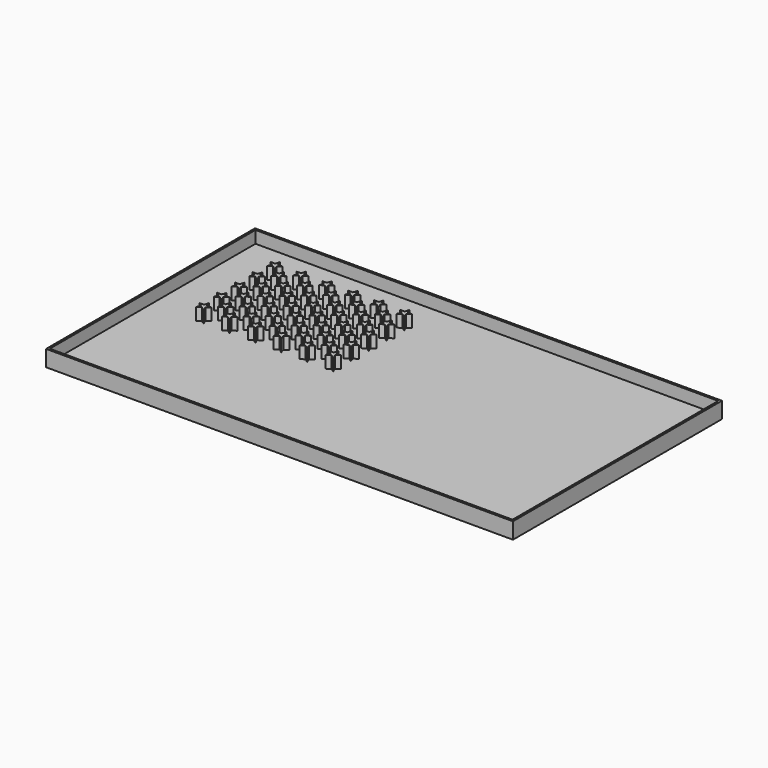
from build123d import *

# Parameters (mm, degrees)
F1_DEPTH = 2
F2_W     = 57.658
F2_H     = 32.258
F2_W_2   = 57.15
F2_H_2   = 31.75
F3_DEPTH = 2
F4_W     = 57.15
F4_H     = 31.75
F5_DEPTH = 0.5


with BuildPart() as f1:
    # F0 (on Top) → F1 (new body)
    with BuildSketch(Plane.XY):
        Polygon((-22.353018, 11.57172), (-22.5298, 12.1158), (-22.706582, 11.57172), (-23.278662, 11.57172), (-22.81584, 11.23546), (-22.992622, 10.69138), (-22.5298, 11.02764), (-22.066978, 10.69138), (-22.24376, 11.23546), (-21.780938, 11.57172), align=None)
        Polygon((-22.353018, 8.82852), (-22.5298, 9.3726), (-22.706582, 8.82852), (-23.278662, 8.82852), (-22.81584, 8.49226), (-22.992622, 7.94818), (-22.5298, 8.28444), (-22.066978, 7.94818), (-22.24376, 8.49226), (-21.780938, 8.82852), align=None)
        Polygon((-20.752247, 10.200905), (-20.9296, 10.74674), (-21.106953, 10.200905), (-21.680878, 10.200905), (-21.216563, 9.86356), (-21.393915, 9.317725), (-20.9296, 9.65507), (-20.465285, 9.317725), (-20.642637, 9.86356), (-20.178322, 10.200905), align=None)
        Polygon((-19.152618, 11.57172), (-19.3294, 12.1158), (-19.506182, 11.57172), (-20.078262, 11.57172), (-19.61544, 11.23546), (-19.792222, 10.69138), (-19.3294, 11.02764), (-18.866578, 10.69138), (-19.04336, 11.23546), (-18.580538, 11.57172), align=None)
        Polygon((-15.952218, 11.57172), (-16.129, 12.1158), (-16.305782, 11.57172), (-16.877862, 11.57172), (-16.41504, 11.23546), (-16.591822, 10.69138), (-16.129, 11.02764), (-15.666178, 10.69138), (-15.84296, 11.23546), (-15.380138, 11.57172), align=None)
        Polygon((-22.353018, 6.08532), (-22.5298, 6.6294), (-22.706582, 6.08532), (-23.278662, 6.08532), (-22.81584, 5.74906), (-22.992622, 5.20498), (-22.5298, 5.54124), (-22.066978, 5.20498), (-22.24376, 5.74906), (-21.780938, 6.08532), align=None)
        Polygon((-20.752247, 7.457705), (-20.9296, 8.00354), (-21.106953, 7.457705), (-21.680878, 7.457705), (-21.216563, 7.12036), (-21.393915, 6.574525), (-20.9296, 6.91187), (-20.465285, 6.574525), (-20.642637, 7.12036), (-20.178322, 7.457705), align=None)
        Polygon((-19.152618, 8.82852), (-19.3294, 9.3726), (-19.506182, 8.82852), (-20.078262, 8.82852), (-19.61544, 8.49226), (-19.792222, 7.94818), (-19.3294, 8.28444), (-18.866578, 7.94818), (-19.04336, 8.49226), (-18.580538, 8.82852), align=None)
        Polygon((-17.551847, 10.200905), (-17.7292, 10.74674), (-17.906553, 10.200905), (-18.480478, 10.200905), (-18.016163, 9.86356), (-18.193515, 9.317725), (-17.7292, 9.65507), (-17.264885, 9.317725), (-17.442237, 9.86356), (-16.977922, 10.200905), align=None)
        Polygon((-12.751818, 11.57172), (-12.9286, 12.1158), (-13.105382, 11.57172), (-13.677462, 11.57172), (-13.21464, 11.23546), (-13.391422, 10.69138), (-12.9286, 11.02764), (-12.465778, 10.69138), (-12.64256, 11.23546), (-12.179738, 11.57172), align=None)
        Polygon((-14.351447, 10.200905), (-14.5288, 10.74674), (-14.706153, 10.200905), (-15.280078, 10.200905), (-14.815763, 9.86356), (-14.993115, 9.317725), (-14.5288, 9.65507), (-14.064485, 9.317725), (-14.241837, 9.86356), (-13.777522, 10.200905), align=None)
        Polygon((-15.952218, 8.82852), (-16.129, 9.3726), (-16.305782, 8.82852), (-16.877862, 8.82852), (-16.41504, 8.49226), (-16.591822, 7.94818), (-16.129, 8.28444), (-15.666178, 7.94818), (-15.84296, 8.49226), (-15.380138, 8.82852), align=None)
        Polygon((-17.551847, 7.457705), (-17.7292, 8.00354), (-17.906553, 7.457705), (-18.480478, 7.457705), (-18.016163, 7.12036), (-18.193515, 6.574525), (-17.7292, 6.91187), (-17.264885, 6.574525), (-17.442237, 7.12036), (-16.977922, 7.457705), align=None)
        Polygon((-19.152618, 6.08532), (-19.3294, 6.6294), (-19.506182, 6.08532), (-20.078262, 6.08532), (-19.61544, 5.74906), (-19.792222, 5.20498), (-19.3294, 5.54124), (-18.866578, 5.20498), (-19.04336, 5.74906), (-18.580538, 6.08532), align=None)
        Polygon((-20.752247, 4.714505), (-20.9296, 5.26034), (-21.106953, 4.714505), (-21.680878, 4.714505), (-21.216563, 4.37716), (-21.393915, 3.831325), (-20.9296, 4.16867), (-20.465285, 3.831325), (-20.642637, 4.37716), (-20.178322, 4.714505), align=None)
        Polygon((-22.353018, 3.34212), (-22.5298, 3.8862), (-22.706582, 3.34212), (-23.278662, 3.34212), (-22.81584, 3.00586), (-22.992622, 2.46178), (-22.5298, 2.79804), (-22.066978, 2.46178), (-22.24376, 3.00586), (-21.780938, 3.34212), align=None)
        Polygon((-22.353018, 0.59892), (-22.5298, 1.143), (-22.706582, 0.59892), (-23.278662, 0.59892), (-22.81584, 0.26266), (-22.992622, -0.28142), (-22.5298, 0.05484), (-22.066978, -0.28142), (-22.24376, 0.26266), (-21.780938, 0.59892), align=None)
        Polygon((-20.752247, 1.971305), (-20.9296, 2.51714), (-21.106953, 1.971305), (-21.680878, 1.971305), (-21.216563, 1.63396), (-21.393915, 1.088125), (-20.9296, 1.42547), (-20.465285, 1.088125), (-20.642637, 1.63396), (-20.178322, 1.971305), align=None)
        Polygon((-19.152618, 3.34212), (-19.3294, 3.8862), (-19.506182, 3.34212), (-20.078262, 3.34212), (-19.61544, 3.00586), (-19.792222, 2.46178), (-19.3294, 2.79804), (-18.866578, 2.46178), (-19.04336, 3.00586), (-18.580538, 3.34212), align=None)
        Polygon((-17.551847, 4.714505), (-17.7292, 5.26034), (-17.906553, 4.714505), (-18.480478, 4.714505), (-18.016163, 4.37716), (-18.193515, 3.831325), (-17.7292, 4.16867), (-17.264885, 3.831325), (-17.442237, 4.37716), (-16.977922, 4.714505), align=None)
        Polygon((-15.952218, 6.08532), (-16.129, 6.6294), (-16.305782, 6.08532), (-16.877862, 6.08532), (-16.41504, 5.74906), (-16.591822, 5.20498), (-16.129, 5.54124), (-15.666178, 5.20498), (-15.84296, 5.74906), (-15.380138, 6.08532), align=None)
        Polygon((-14.351447, 7.457705), (-14.5288, 8.00354), (-14.706153, 7.457705), (-15.280078, 7.457705), (-14.815763, 7.12036), (-14.993115, 6.574525), (-14.5288, 6.91187), (-14.064485, 6.574525), (-14.241837, 7.12036), (-13.777522, 7.457705), align=None)
        Polygon((-12.751818, 8.82852), (-12.9286, 9.3726), (-13.105382, 8.82852), (-13.677462, 8.82852), (-13.21464, 8.49226), (-13.391422, 7.94818), (-12.9286, 8.28444), (-12.465778, 7.94818), (-12.64256, 8.49226), (-12.179738, 8.82852), align=None)
        Polygon((-11.151047, 10.200905), (-11.3284, 10.74674), (-11.505753, 10.200905), (-12.079678, 10.200905), (-11.615363, 9.86356), (-11.792715, 9.317725), (-11.3284, 9.65507), (-10.864085, 9.317725), (-11.041437, 9.86356), (-10.577122, 10.200905), align=None)
        Polygon((-9.551418, 11.57172), (-9.7282, 12.1158), (-9.904982, 11.57172), (-10.477062, 11.57172), (-10.01424, 11.23546), (-10.191022, 10.69138), (-9.7282, 11.02764), (-9.265378, 10.69138), (-9.44216, 11.23546), (-8.979338, 11.57172), align=None)
        Polygon((-6.351018, 11.57172), (-6.5278, 12.1158), (-6.704582, 11.57172), (-7.276662, 11.57172), (-6.81384, 11.23546), (-6.990622, 10.69138), (-6.5278, 11.02764), (-6.064978, 10.69138), (-6.24176, 11.23546), (-5.778938, 11.57172), align=None)
        Polygon((-7.950647, 10.200905), (-8.128, 10.74674), (-8.305353, 10.200905), (-8.879278, 10.200905), (-8.414963, 9.86356), (-8.592315, 9.317725), (-8.128, 9.65507), (-7.663685, 9.317725), (-7.841037, 9.86356), (-7.376722, 10.200905), align=None)
        Polygon((-9.551418, 8.82852), (-9.7282, 9.3726), (-9.904982, 8.82852), (-10.477062, 8.82852), (-10.01424, 8.49226), (-10.191022, 7.94818), (-9.7282, 8.28444), (-9.265378, 7.94818), (-9.44216, 8.49226), (-8.979338, 8.82852), align=None)
        Polygon((-11.151047, 7.457705), (-11.3284, 8.00354), (-11.505753, 7.457705), (-12.079678, 7.457705), (-11.615363, 7.12036), (-11.792715, 6.574525), (-11.3284, 6.91187), (-10.864085, 6.574525), (-11.041437, 7.12036), (-10.577122, 7.457705), align=None)
        Polygon((-12.751818, 6.08532), (-12.9286, 6.6294), (-13.105382, 6.08532), (-13.677462, 6.08532), (-13.21464, 5.74906), (-13.391422, 5.20498), (-12.9286, 5.54124), (-12.465778, 5.20498), (-12.64256, 5.74906), (-12.179738, 6.08532), align=None)
        Polygon((-14.351447, 4.714505), (-14.5288, 5.26034), (-14.706153, 4.714505), (-15.280078, 4.714505), (-14.815763, 4.37716), (-14.993115, 3.831325), (-14.5288, 4.16867), (-14.064485, 3.831325), (-14.241837, 4.37716), (-13.777522, 4.714505), align=None)
        Polygon((-15.952218, 3.34212), (-16.129, 3.8862), (-16.305782, 3.34212), (-16.877862, 3.34212), (-16.41504, 3.00586), (-16.591822, 2.46178), (-16.129, 2.79804), (-15.666178, 2.46178), (-15.84296, 3.00586), (-15.380138, 3.34212), align=None)
        Polygon((-17.551847, 1.971305), (-17.7292, 2.51714), (-17.906553, 1.971305), (-18.480478, 1.971305), (-18.016163, 1.63396), (-18.193515, 1.088125), (-17.7292, 1.42547), (-17.264885, 1.088125), (-17.442237, 1.63396), (-16.977922, 1.971305), align=None)
        Polygon((-19.152618, 0.59892), (-19.3294, 1.143), (-19.506182, 0.59892), (-20.078262, 0.59892), (-19.61544, 0.26266), (-19.792222, -0.28142), (-19.3294, 0.05484), (-18.866578, -0.28142), (-19.04336, 0.26266), (-18.580538, 0.59892), align=None)
        Polygon((-15.952218, 0.59892), (-16.129, 1.143), (-16.305782, 0.59892), (-16.877862, 0.59892), (-16.41504, 0.26266), (-16.591822, -0.28142), (-16.129, 0.05484), (-15.666178, -0.28142), (-15.84296, 0.26266), (-15.380138, 0.59892), align=None)
        Polygon((-14.351447, 1.971305), (-14.5288, 2.51714), (-14.706153, 1.971305), (-15.280078, 1.971305), (-14.815763, 1.63396), (-14.993115, 1.088125), (-14.5288, 1.42547), (-14.064485, 1.088125), (-14.241837, 1.63396), (-13.777522, 1.971305), align=None)
        Polygon((-12.751818, 3.34212), (-12.9286, 3.8862), (-13.105382, 3.34212), (-13.677462, 3.34212), (-13.21464, 3.00586), (-13.391422, 2.46178), (-12.9286, 2.79804), (-12.465778, 2.46178), (-12.64256, 3.00586), (-12.179738, 3.34212), align=None)
        Polygon((-11.151047, 4.714505), (-11.3284, 5.26034), (-11.505753, 4.714505), (-12.079678, 4.714505), (-11.615363, 4.37716), (-11.792715, 3.831325), (-11.3284, 4.16867), (-10.864085, 3.831325), (-11.041437, 4.37716), (-10.577122, 4.714505), align=None)
        Polygon((-9.551418, 6.08532), (-9.7282, 6.6294), (-9.904982, 6.08532), (-10.477062, 6.08532), (-10.01424, 5.74906), (-10.191022, 5.20498), (-9.7282, 5.54124), (-9.265378, 5.20498), (-9.44216, 5.74906), (-8.979338, 6.08532), align=None)
        Polygon((-7.950647, 7.457705), (-8.128, 8.00354), (-8.305353, 7.457705), (-8.879278, 7.457705), (-8.414963, 7.12036), (-8.592315, 6.574525), (-8.128, 6.91187), (-7.663685, 6.574525), (-7.841037, 7.12036), (-7.376722, 7.457705), align=None)
        Polygon((-7.950647, 4.714505), (-8.128, 5.26034), (-8.305353, 4.714505), (-8.879278, 4.714505), (-8.414963, 4.37716), (-8.592315, 3.831325), (-8.128, 4.16867), (-7.663685, 3.831325), (-7.841037, 4.37716), (-7.376722, 4.714505), align=None)
        Polygon((-9.551418, 3.34212), (-9.7282, 3.8862), (-9.904982, 3.34212), (-10.477062, 3.34212), (-10.01424, 3.00586), (-10.191022, 2.46178), (-9.7282, 2.79804), (-9.265378, 2.46178), (-9.44216, 3.00586), (-8.979338, 3.34212), align=None)
        Polygon((-11.151047, 1.971305), (-11.3284, 2.51714), (-11.505753, 1.971305), (-12.079678, 1.971305), (-11.615363, 1.63396), (-11.792715, 1.088125), (-11.3284, 1.42547), (-10.864085, 1.088125), (-11.041437, 1.63396), (-10.577122, 1.971305), align=None)
        Polygon((-12.751818, 0.59892), (-12.9286, 1.143), (-13.105382, 0.59892), (-13.677462, 0.59892), (-13.21464, 0.26266), (-13.391422, -0.28142), (-12.9286, 0.05484), (-12.465778, -0.28142), (-12.64256, 0.26266), (-12.179738, 0.59892), align=None)
        Polygon((-7.950647, 1.971305), (-8.128, 2.51714), (-8.305353, 1.971305), (-8.879278, 1.971305), (-8.414963, 1.63396), (-8.592315, 1.088125), (-8.128, 1.42547), (-7.663685, 1.088125), (-7.841037, 1.63396), (-7.376722, 1.971305), align=None)
        Polygon((-6.351018, 3.34212), (-6.5278, 3.8862), (-6.704582, 3.34212), (-7.276662, 3.34212), (-6.81384, 3.00586), (-6.990622, 2.46178), (-6.5278, 2.79804), (-6.064978, 2.46178), (-6.24176, 3.00586), (-5.778938, 3.34212), align=None)
        Polygon((-6.351018, 0.59892), (-6.5278, 1.143), (-6.704582, 0.59892), (-7.276662, 0.59892), (-6.81384, 0.26266), (-6.990622, -0.28142), (-6.5278, 0.05484), (-6.064978, -0.28142), (-6.24176, 0.26266), (-5.778938, 0.59892), align=None)
        Polygon((-9.551418, 0.59892), (-9.7282, 1.143), (-9.904982, 0.59892), (-10.477062, 0.59892), (-10.01424, 0.26266), (-10.191022, -0.28142), (-9.7282, 0.05484), (-9.265378, -0.28142), (-9.44216, 0.26266), (-8.979338, 0.59892), align=None)
        Polygon((-6.351018, 6.08532), (-6.5278, 6.6294), (-6.704582, 6.08532), (-7.276662, 6.08532), (-6.81384, 5.74906), (-6.990622, 5.20498), (-6.5278, 5.54124), (-6.064978, 5.20498), (-6.24176, 5.74906), (-5.778938, 6.08532), align=None)
        Polygon((-6.351018, 8.82852), (-6.5278, 9.3726), (-6.704582, 8.82852), (-7.276662, 8.82852), (-6.81384, 8.49226), (-6.990622, 7.94818), (-6.5278, 8.28444), (-6.064978, 7.94818), (-6.24176, 8.49226), (-5.778938, 8.82852), align=None)
    extrude(amount=F1_DEPTH)


with BuildPart() as f3:
    # F2 (on Top) → F3 (new body)
    with BuildSketch(Plane.XY):
        Rectangle(F2_W, F2_H)
        Rectangle(F2_W_2, F2_H_2, mode=Mode.SUBTRACT)
    extrude(amount=F3_DEPTH)


with BuildPart() as f5:
    # F4 (on Top) → F5 (new body)
    with BuildSketch(Plane.XY):
        Rectangle(F4_W, F4_H)
    extrude(amount=F5_DEPTH)


solid = Compound([f1.part, f3.part, f5.part])
